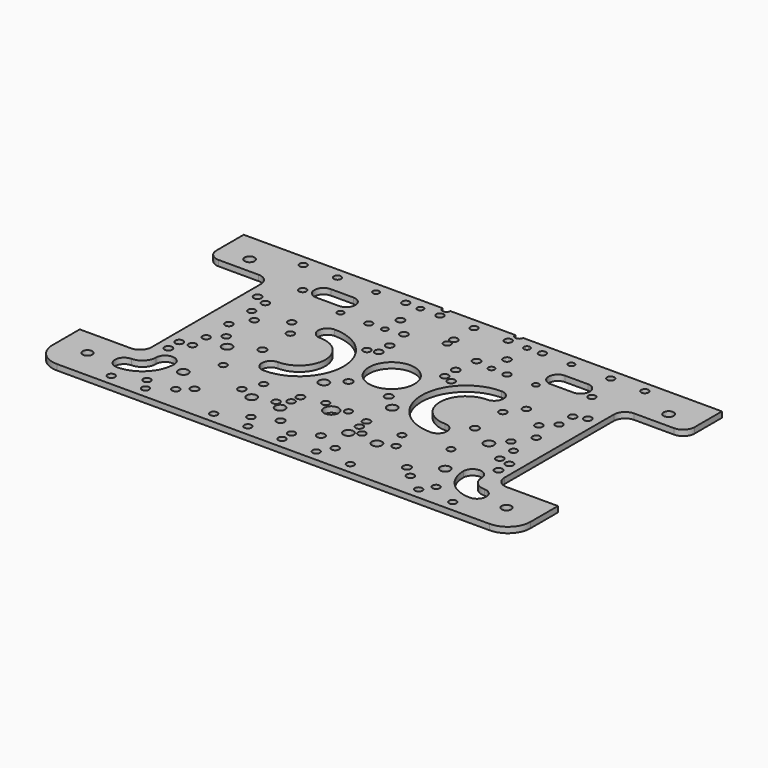
from build123d import *

# Parameters (mm, degrees)
SKETCH_W        = 210
SKETCH_H        = 115
PAD_DEPTH       = 2.5
FILLET_R        = 10
SKETCH001_R     = 2.1
SKETCH001_R_2   = 2.2
POCKET_DEPTH    = 2.501
SKETCH002_W     = 27.5
SKETCH002_H     = 70
POCKET001_DEPTH = 2.501
FILLET001_R     = 5
SKETCH003_R     = 1.6
POCKET002_DEPTH = 2.501
SKETCH004_R     = 1.65
POCKET003_DEPTH = 2.501
SKETCH005_R     = 1.75
POCKET004_DEPTH = 2.501
SKETCH006_R     = 1.6
POCKET005_DEPTH = 2.501
SKETCH007_R     = 2.2
POCKET006_DEPTH = 2.501
SKETCH008_R     = 3.175
POCKET007_DEPTH = 2.501
SKETCH009_R     = 1.7
POCKET008_DEPTH = 2.501
SKETCH010_R     = 1.7
POCKET009_DEPTH = 2.501
SKETCH011_R     = 1.35
POCKET010_DEPTH = 2.501
SKETCH012_R     = 1.6
POCKET011_DEPTH = 2.501
SKETCH013_R     = 1.6
POCKET012_DEPTH = 2.501
SKETCH015_R     = 1.65
POCKET013_DEPTH = 2.501
SKETCH016_R     = 1.6
POCKET014_DEPTH = 481.379899
SKETCH017_R     = 10
POCKET015_DEPTH = 2.5
SKETCH018_R     = 1.65
POCKET016_DEPTH = 2.501
SKETCH020_R     = 1.65
POCKET017_DEPTH = 2.501
SKETCH021_R     = 1.65
POCKET018_DEPTH = 2.501
SKETCH022_R     = 2.2
POCKET019_DEPTH = 2.501
POCKET020_DEPTH = 5


with BuildPart() as part:
    # Sketch → Pad (new body)
    with BuildSketch(Plane.XY):
        Rectangle(SKETCH_W, SKETCH_H)
    extrude(amount=PAD_DEPTH)

    # Fillet
    fillet_edges = [part.edges().sort_by_distance(p)[0] for p in [
        (-105, -57.5, 1.25),
        (105, -57.5, 1.25),
    ]]
    fillet(fillet_edges, radius=FILLET_R)

    # Sketch001 (on Face5 of Fillet) → Pocket (cut, through all)
    with BuildSketch(Plane.XY.offset(2.5)):
        with Locations((92, -44.5)):
            Circle(SKETCH001_R)
        with Locations((-92, -44.5)):
            Circle(SKETCH001_R)
        with Locations((92, 44.5)):
            Circle(SKETCH001_R_2)
        with Locations((-92, 44.5)):
            Circle(SKETCH001_R_2)
    extrude(amount=-POCKET_DEPTH, mode=Mode.SUBTRACT)

    # Sketch002 (on Face5 of Pocket) → Pocket001 (cut, through all)
    with BuildSketch(Plane.XY.offset(2.5)):
        with Locations((91.25, 2.5)):
            Rectangle(SKETCH002_W, SKETCH002_H)
        with Locations((-91.25, 2.5)):
            Rectangle(SKETCH002_W, SKETCH002_H)
    extrude(amount=-POCKET001_DEPTH, mode=Mode.SUBTRACT)

    # Fillet001
    fillet001_edges = [part.edges().sort_by_distance(p)[0] for p in [
        (77.5, -32.5, 1.25),
        (77.5, 37.5, 1.25),
        (-77.5, 37.5, 1.25),
        (-77.5, -32.5, 1.25),
        (105, 37.5, 1.25),
        (-105, 37.5, 1.25),
    ]]
    fillet(fillet001_edges, radius=FILLET001_R)

    # Sketch003 (on Face5 of Fillet001) → Pocket002 (cut, through all)
    with BuildSketch(Plane.XY.offset(2.5)):
        with Locations((0, 38)):
            Circle(SKETCH003_R)
        with Locations((63.5, 38)):
            Circle(SKETCH003_R)
        with Locations((63.5, -47.5)):
            Circle(SKETCH003_R)
        with Locations((0, -47.5)):
            Circle(SKETCH003_R)
        with Locations((-63.5, 38)):
            Circle(SKETCH003_R)
        with Locations((-63.5, -47.5)):
            Circle(SKETCH003_R)
    extrude(amount=-POCKET002_DEPTH, mode=Mode.SUBTRACT)

    # Sketch004 (on Face5 of Pocket002) → Pocket003 (cut, through all)
    with BuildSketch(Plane.XY.offset(2.5)):
        with Locations((46.651, 10.1745)):
            Circle(SKETCH004_R)
        with Locations((46.651, -5.1745)):
            Circle(SKETCH004_R)
        with Locations((62.5, -5.1745)):
            Circle(SKETCH004_R)
        with Locations((62.5, 10.1745)):
            Circle(SKETCH004_R)
        with Locations((-46.651, 10.1745)):
            Circle(SKETCH004_R)
        with Locations((-46.651, -5.1745)):
            Circle(SKETCH004_R)
        with Locations((-62.5, -5.1745)):
            Circle(SKETCH004_R)
        with Locations((-62.5, 10.1745)):
            Circle(SKETCH004_R)
    extrude(amount=-POCKET003_DEPTH, mode=Mode.SUBTRACT)

    # Sketch005 (on Face5 of Pocket003) → Pocket004 (cut, through all)
    with BuildSketch(Plane.XY.offset(2.5)):
        with Locations((-46.651, -5.1745)):
            Circle(SKETCH005_R)
        with Locations((-8.851, -5.1745)):
            Circle(SKETCH005_R)
        with Locations((-46.651, -42.4445)):
            Circle(SKETCH005_R)
        with Locations((-8.851, -42.4445)):
            Circle(SKETCH005_R)
        with Locations((46.651, -5.1745)):
            Circle(SKETCH005_R)
        with Locations((8.851, -5.1745)):
            Circle(SKETCH005_R)
        with Locations((46.651, -42.4445)):
            Circle(SKETCH005_R)
        with Locations((8.851, -42.4445)):
            Circle(SKETCH005_R)
    extrude(amount=-POCKET004_DEPTH, mode=Mode.SUBTRACT)

    # Sketch006 (on Face5 of Pocket004) → Pocket005 (cut, through all)
    with BuildSketch(Plane.XY.offset(2.5)):
        with Locations((5, -22.5)):
            Circle(SKETCH006_R)
        with Locations((50, -22.5)):
            Circle(SKETCH006_R)
        with Locations((-5, -22.5)):
            Circle(SKETCH006_R)
        with Locations((-50, -22.5)):
            Circle(SKETCH006_R)
    extrude(amount=-POCKET005_DEPTH, mode=Mode.SUBTRACT)

    # Sketch007 (on Face5 of Pocket005) → Pocket006 (cut, through all)
    with BuildSketch(Plane.XY.offset(2.5)):
        with Locations((-15, -11)):
            Circle(SKETCH007_R)
        with Locations((15, -11)):
            Circle(SKETCH007_R)
        with Locations((-15, -35)):
            Circle(SKETCH007_R)
        with Locations((15, -35)):
            Circle(SKETCH007_R)
    extrude(amount=-POCKET006_DEPTH, mode=Mode.SUBTRACT)

    # Sketch008 (on Face5 of Pocket006) → Pocket007 (cut, through all)
    with BuildSketch(Plane.XY.offset(2.5)):
        with Locations((0, -25.675)):
            Circle(SKETCH008_R)
    extrude(amount=-POCKET007_DEPTH, mode=Mode.SUBTRACT)

    # Sketch009 (on Face5 of Pocket007) → Pocket008 (cut, through all)
    with BuildSketch(Plane.XY.offset(2.5)):
        with Locations((0, 41.54)):
            Circle(SKETCH009_R)
        with Locations((23.4, 41.54)):
            Circle(SKETCH009_R)
        with Locations((-23.4, 41.54)):
            Circle(SKETCH009_R)
        with Locations((-15.96, 57.5)):
            Circle(SKETCH009_R)
        with Locations((15.96, 57.5)):
            Circle(SKETCH009_R)
        with Locations((-15.96, 34.1)):
            Circle(SKETCH009_R)
        with Locations((15.96, 34.1)):
            Circle(SKETCH009_R)
    extrude(amount=-POCKET008_DEPTH, mode=Mode.SUBTRACT)

    # Sketch010 (on Face5 of Pocket008) → Pocket009 (cut, through all)
    with BuildSketch(Plane.XY.offset(2.5)):
        with Locations((-72.5, 24.5)):
            Circle(SKETCH010_R)
        with Locations((-14.5, 24.5)):
            Circle(SKETCH010_R)
        with Locations((-72.5, -24.5)):
            Circle(SKETCH010_R)
        with Locations((-14.5, -24.5)):
            Circle(SKETCH010_R)
        with Locations((-72.5, -18.5)):
            Circle(SKETCH010_R)
        with Locations((-14.5, 18.5)):
            Circle(SKETCH010_R)
        with Locations((72.5, 24.5)):
            Circle(SKETCH010_R)
        with Locations((14.5, 24.5)):
            Circle(SKETCH010_R)
        with Locations((72.5, -24.5)):
            Circle(SKETCH010_R)
        with Locations((14.5, -24.5)):
            Circle(SKETCH010_R)
        with Locations((72.5, -18.5)):
            Circle(SKETCH010_R)
        with Locations((14.5, 18.5)):
            Circle(SKETCH010_R)
    extrude(amount=-POCKET009_DEPTH, mode=Mode.SUBTRACT)

    # Sketch011 (on Face5 of Pocket009) → Pocket010 (cut, through all)
    with BuildSketch(Plane.XY.offset(2.5)):
        with Locations((-42.9, 52.5)):
            Circle(SKETCH011_R)
        with Locations((-23.4, 52.5)):
            Circle(SKETCH011_R)
        with Locations((-42.9, 33)):
            Circle(SKETCH011_R)
        with Locations((-23.4, 33)):
            Circle(SKETCH011_R)
        with Locations((42.9, 52.5)):
            Circle(SKETCH011_R)
        with Locations((23.4, 52.5)):
            Circle(SKETCH011_R)
        with Locations((42.9, 33)):
            Circle(SKETCH011_R)
        with Locations((23.4, 33)):
            Circle(SKETCH011_R)
    extrude(amount=-POCKET010_DEPTH, mode=Mode.SUBTRACT)

    # Sketch012 (on Face5 of Pocket010) → Pocket011 (cut, through all)
    with BuildSketch(Plane.XY.offset(2.5)):
        with Locations((67.5, 15)):
            Circle(SKETCH012_R)
        with Locations((67.5, -10)):
            Circle(SKETCH012_R)
        with Locations((-67.5, 15)):
            Circle(SKETCH012_R)
        with Locations((-67.5, -10)):
            Circle(SKETCH012_R)
    extrude(amount=-POCKET011_DEPTH, mode=Mode.SUBTRACT)

    # Sketch013 (on Face5 of Pocket011) → Pocket012 (cut, through all)
    with BuildSketch(Plane.XY.offset(2.5)):
        with Locations((30.35, 32.85)):
            Circle(SKETCH013_R)
        with Locations((-30.35, 32.85)):
            Circle(SKETCH013_R)
        with Locations((-30.35, -24.85)):
            Circle(SKETCH013_R)
        with Locations((30.35, -24.85)):
            Circle(SKETCH013_R)
    extrude(amount=-POCKET012_DEPTH, mode=Mode.SUBTRACT)

    # Sketch015 (on Face5 of Pocket012) → Pocket013 (cut, through all)
    with BuildSketch(Plane.XY.offset(2.5)):
        with Locations((-15, -29)):
            Circle(SKETCH015_R)
        with Locations((15, -29)):
            Circle(SKETCH015_R)
    extrude(amount=-POCKET013_DEPTH, mode=Mode.SUBTRACT)

    # Sketch016 (on Face5 of Pocket013) → Pocket014 (cut, through all)
    with BuildSketch(Plane.XY.offset(2.5)):
        with Locations((0, 52.706787)):
            Circle(SKETCH016_R)
        with Locations((15, 52.706787)):
            Circle(SKETCH016_R)
        with Locations((30, 52.706787)):
            Circle(SKETCH016_R)
        with Locations((60, 52.706787)):
            Circle(SKETCH016_R)
        with Locations((75, 52.706787)):
            Circle(SKETCH016_R)
        with Locations((-15, 52.706787)):
            Circle(SKETCH016_R)
        with Locations((-30, 52.706787)):
            Circle(SKETCH016_R)
        with Locations((-60, 52.706787)):
            Circle(SKETCH016_R)
        with Locations((-75, 52.706787)):
            Circle(SKETCH016_R)
    pocket014 = extrude(amount=-POCKET014_DEPTH, mode=Mode.SUBTRACT)

    # Mirrored: Pocket014 across XZ
    add(pocket014.mirror(Plane.XZ), mode=Mode.SUBTRACT)

    # Sketch017 (on Face5 of Mirrored) → Pocket015 (cut)
    with BuildSketch(Plane.XY.offset(2.5)):
        with Locations((0, 7.5)):
            Circle(SKETCH017_R)
        with BuildLine():
            ThreePointArc((-77.5, -46.5), (-67.600505, -42.399495), (-63.5, -32.5))
            ThreePointArc((-63.5, -32.5), (-67.5, -28.5), (-71.5, -32.5))
            ThreePointArc((-77.5, -38.5), (-73.257359, -36.742641), (-71.5, -32.5))
            ThreePointArc((-77.5, -38.5), (-81.5, -42.5), (-77.5, -46.5))
        make_face()
        with BuildLine():
            ThreePointArc((63.5, -32.5), (67.600505, -42.399495), (77.5, -46.5))
            ThreePointArc((77.5, -46.5), (81.5, -42.5), (77.5, -38.5))
            ThreePointArc((71.5, -32.5), (73.257359, -36.742641), (77.5, -38.5))
            ThreePointArc((71.5, -32.5), (67.5, -28.5), (63.5, -32.5))
        make_face()
        with BuildLine():
            ThreePointArc((-36.651, -17), (-17.151, 2.5), (-36.651, 22))
            ThreePointArc((-36.651, 22), (-40.651, 18), (-36.651, 14))
            ThreePointArc((-36.651, -9), (-25.151, 2.5), (-36.651, 14))
            ThreePointArc((-36.651, -9), (-40.651, -13), (-36.651, -17))
        make_face()
        with BuildLine():
            ThreePointArc((36.65101, 22), (17.150961, 2.5), (36.65101, -17))
            ThreePointArc((36.65101, -17), (40.651, -12.99999), (36.65099, -9))
            ThreePointArc((36.65099, 14), (25.150961, 2.5), (36.65099, -9))
            ThreePointArc((36.65099, 14), (40.651, 17.99999), (36.65101, 22))
        make_face()
    extrude(amount=-POCKET015_DEPTH, mode=Mode.SUBTRACT)

    # Sketch018 (on Face5 of Pocket015) → Pocket016 (cut, through all)
    with BuildSketch(Plane.XY.offset(2.5)):
        with Locations((67.5, 2.5)):
            Circle(SKETCH018_R)
        with Locations((67.5, -17.5)):
            Circle(SKETCH018_R)
        with Locations((67.5, 22.5)):
            Circle(SKETCH018_R)
        with Locations((-67.5, 2.5)):
            Circle(SKETCH018_R)
        with Locations((-67.5, -17.5)):
            Circle(SKETCH018_R)
        with Locations((-67.5, 22.5)):
            Circle(SKETCH018_R)
    extrude(amount=-POCKET016_DEPTH, mode=Mode.SUBTRACT)

    # Sketch020 (on Face5 of Pocket016) → Pocket017 (cut, through all)
    with BuildSketch(Plane.XY.offset(2.5)):
        with Locations((-33.851, -32.4445)):
            Circle(SKETCH020_R)
        with Locations((-18.851, -32.4445)):
            Circle(SKETCH020_R)
        with Locations((33.851, -32.4445)):
            Circle(SKETCH020_R)
        with Locations((18.851, -32.4445)):
            Circle(SKETCH020_R)
    extrude(amount=-POCKET017_DEPTH, mode=Mode.SUBTRACT)

    # Sketch021 (on Face5 of Pocket017) → Pocket018 (cut, through all)
    with BuildSketch(Plane.XY.offset(2.5)):
        with Locations((18.5, 17)):
            Circle(SKETCH021_R)
        with Locations((51.5, 17)):
            Circle(SKETCH021_R)
        with Locations((18.5, -46.65)):
            Circle(SKETCH021_R)
        with Locations((51.5, -46.65)):
            Circle(SKETCH021_R)
        with Locations((-18.5, 17)):
            Circle(SKETCH021_R)
        with Locations((-51.5, 17)):
            Circle(SKETCH021_R)
        with Locations((-18.5, -46.65)):
            Circle(SKETCH021_R)
        with Locations((-51.5, -46.65)):
            Circle(SKETCH021_R)
    extrude(amount=-POCKET018_DEPTH, mode=Mode.SUBTRACT)

    # Sketch022 (on Face5 of Pocket018) → Pocket019 (cut, through all)
    with BuildSketch(Plane.XY.offset(2.5)):
        with Locations((-57.5, -11)):
            Circle(SKETCH022_R)
        with Locations((-57.5, -35)):
            Circle(SKETCH022_R)
        with Locations((-27.5, -11)):
            Circle(SKETCH022_R)
        with Locations((-27.5, -35)):
            Circle(SKETCH022_R)
        with Locations((57.5, -11)):
            Circle(SKETCH022_R)
        with Locations((57.5, -35)):
            Circle(SKETCH022_R)
        with Locations((27.5, -11)):
            Circle(SKETCH022_R)
        with Locations((27.5, -35)):
            Circle(SKETCH022_R)
    extrude(amount=-POCKET019_DEPTH, mode=Mode.SUBTRACT)

    # Sketch023 (on Face5 of Pocket019) → Pocket020 (cut)
    with BuildSketch(Plane.XY.offset(2.5)):
        with BuildLine():
            ThreePointArc((-56.45, 44.603394), (-60.45, 40.603394), (-56.45, 36.603394))
            Line((-56.45, 36.603394), (-46.45, 36.603394))
            ThreePointArc((-46.45, 36.603394), (-42.45, 40.603394), (-46.45, 44.603394))
            Line((-56.45, 44.603394), (-46.45, 44.603394))
        make_face()
        with BuildLine():
            ThreePointArc((56.45, 36.603394), (60.45, 40.603394), (56.45, 44.603394))
            Line((56.45, 44.603394), (46.45, 44.603394))
            ThreePointArc((46.45, 44.603394), (42.45, 40.603394), (46.45, 36.603394))
            Line((56.45, 36.603394), (46.45, 36.603394))
        make_face()
    extrude(amount=-POCKET020_DEPTH, mode=Mode.SUBTRACT)


solid = part.part
